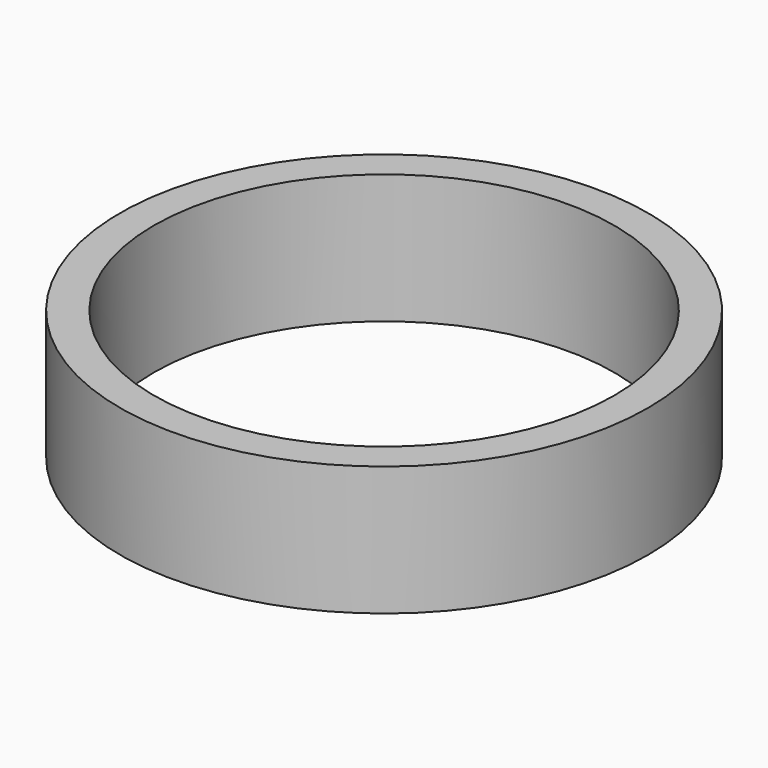
from build123d import *

# Parameters (mm, degrees)
F0_R     = 61.200125
F1_DEPTH = 30
F2_R     = 53.376181
F3_DEPTH = 45.533195


with BuildPart() as f1:
    # F0 (on Top) → F1 (new body)
    with BuildSketch(Plane.XY):
        Circle(F0_R)
    extrude(amount=F1_DEPTH)

    # F2 (on face) → F3 (cut)
    with BuildSketch(Plane.XY.offset(30)):
        Circle(F2_R)
        Circle(F2_R)
    extrude(amount=-F3_DEPTH, mode=Mode.SUBTRACT)


solid = f1.part
